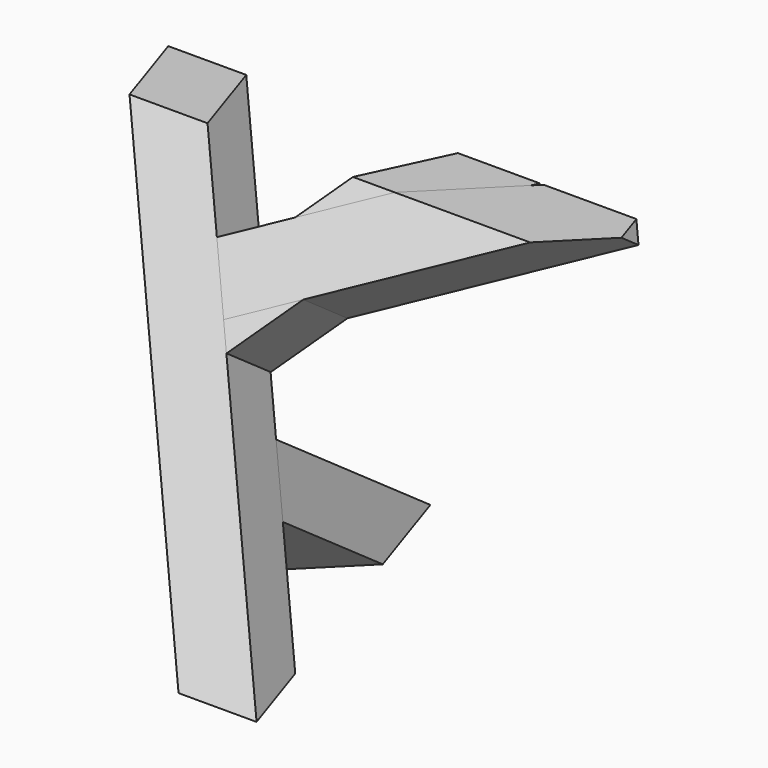
from build123d import *

# Parameters (mm, degrees)
F9_W           = 140
F9_H           = 140
F10_DEPTH      = 800
F10_DEPTH_BACK = 800
F12_W          = 564.5952224731
F12_H          = 285.0261449814
F13_DEPTH      = 1428.1339100058
F15_DEPTH      = 700
F16_W          = 560.895
F16_H          = 273.263
F17_DEPTH      = 1359.2254278392
F19_DEPTH      = 700
F21_DEPTH      = 1596.4534700886
F22_W          = 800
F22_H          = 96.37819767
F22_W_2        = 981.2902510166
F22_H_2        = 103.05424124
F23_DEPTH      = 1596.4534700886
F27_W          = 131.7142857143
F27_H          = 140
F28_DEPTH      = 25
F28_DEPTH_BACK = 50
F29_DEPTH      = 800
F31_DEPTH      = 1596.4534700886


with BuildPart() as f10:
    # F9 (on offset) → F10 (new body, two sides)
    with BuildSketch(Plane(origin=(-141.3425141685, 141.3425141685, 200.4858357), x_dir=(0.8664559823, 0.2876707367, 0.4080435981), z_dir=(-0.4992534734, 0.4992534734, 0.7081609552))) as f10_sk:
        with Locations((126.285384252, -256.6345486516)):
            Rectangle(F9_W, F9_H)
    extrude(amount=F10_DEPTH)
    extrude(f10_sk.sketch, amount=-F10_DEPTH_BACK)

    # F12 (on offset) → F13 (cut, through all)
    with BuildSketch(Plane.YZ.offset(-1000)):
        with Locations((282.2976112366, 942.5130724907)):
            Rectangle(F12_W, F12_H)
        Polygon((-127.9739290476, -303.6372065544), (-127.9739290476, 0), (-400, 0), (-567.8840875626, 0), (-567.8840875626, -303.6372065544), align=None)
    extrude(amount=F13_DEPTH, mode=Mode.SUBTRACT)


with BuildPart() as f15:
    # F14 (on face) → F15 (new body)
    with BuildSketch(Plane(origin=(0, -152.5378125987, 107.5391578821), x_dir=(-1, 0, 0), z_dir=(0, 0.8173074798, -0.5762017732))):
        Polygon((45.6116016434, 191.898172882), (-75.6922358782, 261.7936591636), (-145.5877221597, 140.4898216419), (-24.2838846381, 70.5943353604), align=None)
    extrude(amount=F15_DEPTH)

    # F16 (on offset) → F17 (cut, through all)
    with BuildSketch(Plane.YZ.offset(-1000)):
        with Locations((375.4791935778, -136.6315)):
            Rectangle(F16_W, F16_H)
    extrude(amount=F17_DEPTH, mode=Mode.SUBTRACT)


with BuildPart() as f19:
    # F18 (on face) → F19 (new body)
    with BuildSketch(Plane(origin=(170.0726454226, 56.4655610903, 80.0929944543), x_dir=(-0.2602551811, 0.9577293706, -0.1225630184), z_dir=(0.8664559823, 0.2876707367, 0.4080435981))):
        Polygon((101.8001949413, 524.6782716814), (-17.6730619993, 597.6586860129), (-90.6534763308, 478.1854290723), (28.8197806098, 405.2050147407), align=None)
    extrude(amount=F19_DEPTH)

    # F20 (on offset) → F21 (cut, through all)
    with BuildSketch(Plane.YZ.offset(-1000)):
        Polygon((400, 800), (468.4830904007, 800), (468.4830904007, 1033.912062645), (129.1458308697, 1033.912062645), (129.1458308697, 800), align=None)
    extrude(amount=F21_DEPTH, mode=Mode.SUBTRACT)


with BuildPart() as f23_tool:
    # F22 (on offset) → F23 (new body, through all)
    with BuildSketch(Plane.YZ.offset(-1000)):
        with Locations((0, 808.189098835)):
            Rectangle(F22_W, F22_H)
        with Locations((7.2197765112, -11.52712062)):
            Rectangle(F22_W_2, F22_H_2)
    extrude(amount=F23_DEPTH)


with BuildPart() as f10_1:
    add(f10.part)

    # F23: cut by f23_tool
    add(f23_tool.part, mode=Mode.SUBTRACT)

    # F27 (on 3pt) → F28 (join, two sides)
    with BuildSketch(Plane(origin=(215.8367219303, 152.8155457803, 216.7596394047), x_dir=(0.7756098225, -0.3637058454, -0.5158948161), z_dir=(-0.6312126451, -0.4469077551, -0.6339117093))) as f28_sk:
        with Locations((-279.1603104754, 256.6345486516)):
            Rectangle(F27_W, F27_H)
    extrude(amount=-F28_DEPTH)
    extrude(f28_sk.sketch, amount=F28_DEPTH_BACK)

    # F29 (add): a face of the model
    f29_faces = [f10_1.faces().sort_by_distance(p)[0] for p in [
        (15.0975592058, 55.77114019, 524.4980711915),
    ]]
    extrude(f29_faces, amount=F29_DEPTH)

    # F30 (on offset) → F31 (cut, through all)
    with BuildSketch(Plane.YZ.offset(-1000)):
        Polygon((380.0384484697, 1105.9369213675), (136.1529189055, 760), (307.4470810945, 760), (494.4614956391, 1025.268673113), align=None)
    extrude(amount=F31_DEPTH, mode=Mode.SUBTRACT)


with BuildPart() as f15_1:
    add(f15.part)

    # F23: cut by f23_tool
    add(f23_tool.part, mode=Mode.SUBTRACT)


with BuildPart() as f19_1:
    add(f19.part)

    # F23: cut by f23_tool
    add(f23_tool.part, mode=Mode.SUBTRACT)


solid = Compound([f10_1.part, f15_1.part, f19_1.part])
